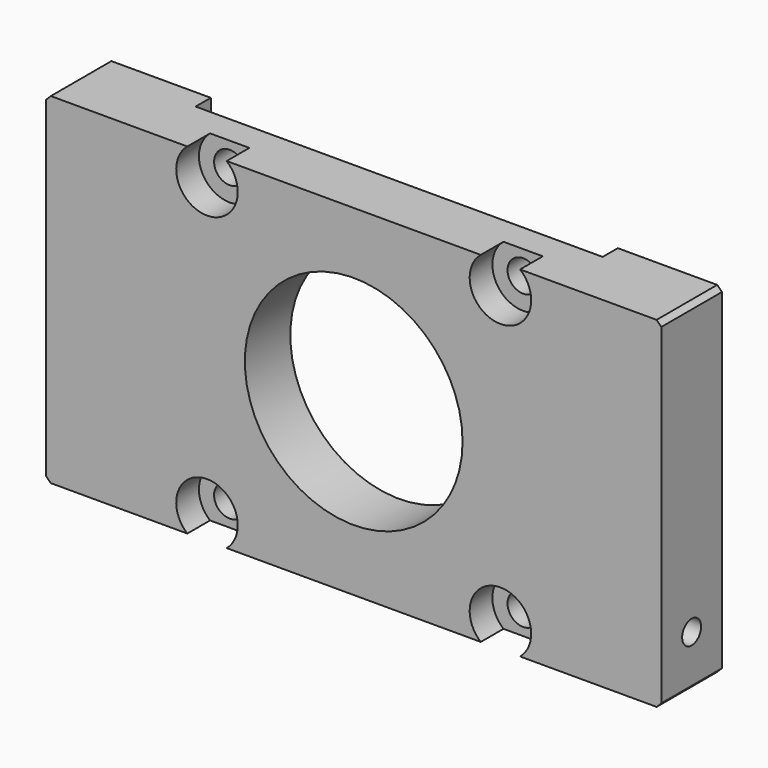
from build123d import *

# Parameters (mm, degrees)
F0_W           = 65
F0_H           = 36
F0_R           = 11.5
F1_DEPTH       = 8
F3_D           = 3.3
F3_CBORE_D     = 6.5
F3_CBORE_DEPTH = 3
F4_SIZE        = 0.5
F6_D           = 2.5
F6_DEPTH       = 13.5
F6_TIP         = 0.7510757738
F7_W           = 43
F7_H           = 36
F7_R           = 1.65
F7_R_2         = 11.5
F8_DEPTH       = 2
F10_D          = 2.5
F10_DEPTH      = 13.5
F10_TIP        = 0.7510757738


with BuildPart() as f1:
    # F0 (on Front) → F1 (new body)
    with BuildSketch(Plane.XZ):
        Rectangle(F0_W, F0_H)
        Circle(F0_R, mode=Mode.SUBTRACT)
    extrude(amount=F1_DEPTH)

    # F3 (through all)
    with Locations(Plane.XZ.offset(8)):
        with Locations((15.5, 15.5), (15.5, -15.5), (-15.5, -15.5), (-15.5, 15.5)):
            CounterBoreHole(F3_D / 2, F3_CBORE_D / 2, F3_CBORE_DEPTH)

    # F4
    f4_edges = [f1.edges().sort_by_distance(p)[0] for p in [
        (-32.5, -4, 18),
        (32.5, -4, 18),
        (32.5, -4, -18),
        (-32.5, -4, -18),
    ]]
    chamfer(f4_edges, length=F4_SIZE)

    # F6
    with Locations(Plane(origin=(0, 0, -18), x_dir=(1, 0, 0), z_dir=(0, 0, -1))):
        with Locations((27, 4), (-27, 4)):
            Hole(F6_D / 2, depth=F6_DEPTH)
            with Locations((0, 0, -(F6_DEPTH + F6_TIP / 2))):  # 118° drill point
                Cone(0, F6_D / 2, F6_TIP, mode=Mode.SUBTRACT)

    # F7 (on face) → F8 (cut)
    with BuildSketch(Plane(origin=(0, 0, 0), x_dir=(-1, 0, 0), z_dir=(0, 1, 0))):
        Rectangle(F7_W, F7_H)
        with Locations((-15.5, -15.5)):
            Circle(F7_R, mode=Mode.SUBTRACT)
        with Locations((15.5, -15.5)):
            Circle(F7_R, mode=Mode.SUBTRACT)
        with Locations((-15.5, 15.5)):
            Circle(F7_R, mode=Mode.SUBTRACT)
        Circle(F7_R_2, mode=Mode.SUBTRACT)
        with Locations((15.5, 15.5)):
            Circle(F7_R, mode=Mode.SUBTRACT)
    extrude(amount=-F8_DEPTH, mode=Mode.SUBTRACT)

    # F10
    with Locations(Plane.YZ.offset(32.5)):
        with Locations((-4, -12.5)):
            Hole(F10_D / 2, depth=F10_DEPTH)
            with Locations((0, 0, -(F10_DEPTH + F10_TIP / 2))):  # 118° drill point
                Cone(0, F10_D / 2, F10_TIP, mode=Mode.SUBTRACT)


solid = f1.part
